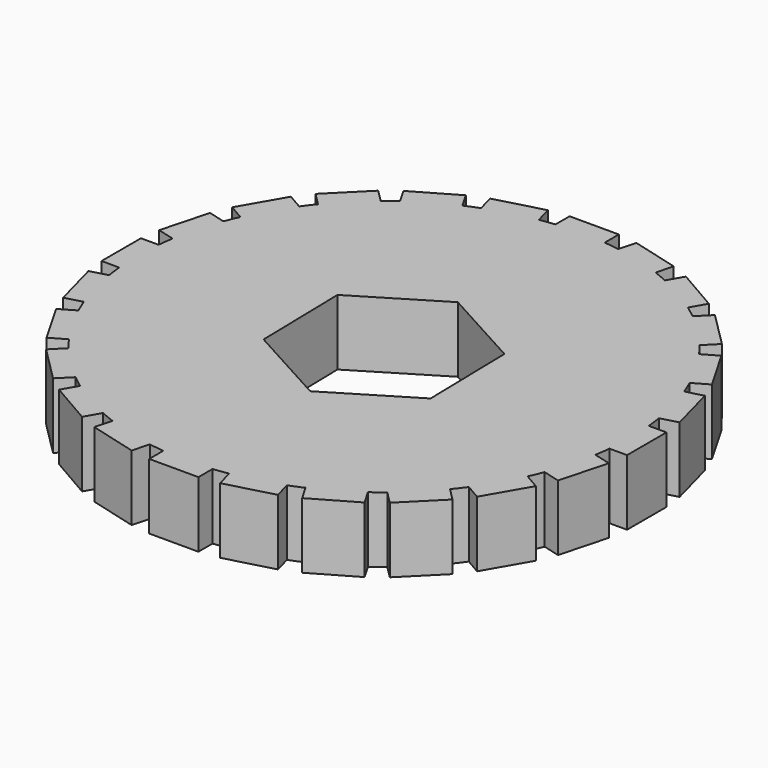
from build123d import *

# Parameters (mm, degrees)
F1_DEPTH = 4


with BuildPart() as f1:
    # F0 (on Top) → F1 (new body)
    with BuildSketch(Plane.XY):
        with BuildLine():
            ThreePointArc((-14.80449, -2.413937), (-14.488887, -3.882286), (-14.028032, -5.311714))
            Line((-14.028032, -5.311714), (-13.134733, -5.072355))
            Line((-13.134733, -5.072355), (-13.91119, -2.174578))
            Line((-13.91119, -2.174578), (-14.80449, -2.413937))
        make_face()
        with BuildLine():
            Line((-10.253048, -12.374369), (-9.492775, -11.614096))
            ThreePointArc((-9.492775, -11.614096), (-10.606602, -10.606602), (-11.614096, -9.492775))
            Line((-11.614096, -9.492775), (-12.374369, -10.253048))
            Line((-12.374369, -10.253048), (-10.253048, -12.374369))
        make_face()
        with BuildLine():
            Line((14.606406, -6.700962), (13.675266, -6.163368))
            ThreePointArc((13.675266, -6.163368), (12.990381, -7.5), (12.175266, -8.761444))
            Line((12.175266, -8.761444), (13.106406, -9.299038))
            Line((13.106406, -9.299038), (14.606406, -6.700962))
        make_face()
        with BuildLine():
            Line((-14, 1.5), (-14.924812, 1.5))
            ThreePointArc((-14.924812, 1.5), (-15, 0), (-14.924812, -1.5))
            Line((-14.924812, -1.5), (-14, -1.5))
            Line((-14, -1.5), (-14, 1.5))
        make_face()
        with BuildLine():
            Line((12.374369, -10.253048), (11.614096, -9.492775))
            ThreePointArc((11.614096, -9.492775), (10.606602, -10.606602), (9.492775, -11.614096))
            Line((9.492775, -11.614096), (10.253048, -12.374369))
            Line((10.253048, -12.374369), (12.374369, -10.253048))
        make_face()
        with BuildLine():
            Line((-13.134733, 5.072355), (-14.028032, 5.311714))
            ThreePointArc((-14.028032, 5.311714), (-14.488887, 3.882286), (-14.80449, 2.413937))
            Line((-14.80449, 2.413937), (-13.91119, 2.174578))
            Line((-13.91119, 2.174578), (-13.134733, 5.072355))
        make_face()
        with BuildLine():
            Line((-13.106406, -9.299038), (-12.175266, -8.761444))
            ThreePointArc((-12.175266, -8.761444), (-12.990381, -7.5), (-13.675266, -6.163368))
            Line((-13.675266, -6.163368), (-14.606406, -6.700962))
            Line((-14.606406, -6.700962), (-13.106406, -9.299038))
        make_face()
        with BuildLine():
            Line((9.299038, -13.106406), (8.761444, -12.175266))
            ThreePointArc((8.761444, -12.175266), (7.5, -12.990381), (6.163368, -13.675266))
            Line((6.163368, -13.675266), (6.700962, -14.606406))
            Line((6.700962, -14.606406), (9.299038, -13.106406))
        make_face()
        with BuildLine():
            Line((-11.374356, 8.299038), (-12.175266, 8.761444))
            ThreePointArc((-12.175266, 8.761444), (-12.990381, 7.5), (-13.675266, 6.163368))
            Line((-13.675266, 6.163368), (-12.874356, 5.700962))
            Line((-12.874356, 5.700962), (-11.374356, 8.299038))
        make_face()
        with BuildLine():
            Line((5.589993, -15.066585), (5.311714, -14.028032))
            ThreePointArc((5.311714, -14.028032), (3.882286, -14.488887), (2.413937, -14.80449))
            Line((2.413937, -14.80449), (2.692216, -15.843042))
            Line((2.692216, -15.843042), (5.589993, -15.066585))
        make_face()
        with BuildLine():
            Line((-8.838835, 10.960155), (-9.492775, 11.614096))
            ThreePointArc((-9.492775, 11.614096), (-10.606602, 10.606602), (-11.614096, 9.492775))
            Line((-11.614096, 9.492775), (-10.960155, 8.838835))
            Line((-10.960155, 8.838835), (-8.838835, 10.960155))
        make_face()
        with BuildLine():
            Line((14, 1.5), (14.924812, 1.5))
            ThreePointArc((14.924812, 1.5), (14.871673, 1.957893), (14.80449, 2.413937))
            Line((14.80449, 2.413937), (13.91119, 2.174578))
            Line((13.91119, 2.174578), (13.134733, 5.072355))
            Line((13.134733, 5.072355), (14.028032, 5.311714))
            ThreePointArc((14.028032, 5.311714), (13.858193, 5.740251), (13.675266, 6.163368))
            Line((13.675266, 6.163368), (12.874356, 5.700962))
            Line((12.874356, 5.700962), (11.374356, 8.299038))
            Line((11.374356, 8.299038), (12.175266, 8.761444))
            ThreePointArc((12.175266, 8.761444), (11.9003, 9.131421), (11.614096, 9.492775))
            Line((11.614096, 9.492775), (10.960155, 8.838835))
            Line((10.960155, 8.838835), (8.838835, 10.960155))
            Line((8.838835, 10.960155), (9.492775, 11.614096))
            ThreePointArc((9.492775, 11.614096), (9.131421, 11.9003), (8.761444, 12.175266))
            Line((8.761444, 12.175266), (8.299038, 11.374356))
            Line((8.299038, 11.374356), (5.700962, 12.874356))
            Line((5.700962, 12.874356), (6.163368, 13.675266))
            ThreePointArc((6.163368, 13.675266), (5.740251, 13.858193), (5.311714, 14.028032))
            Line((5.311714, 14.028032), (5.072355, 13.134733))
            Line((5.072355, 13.134733), (2.174578, 13.91119))
            Line((2.174578, 13.91119), (2.413937, 14.80449))
            ThreePointArc((2.413937, 14.80449), (1.957893, 14.871673), (1.5, 14.924812))
            Line((1.5, 14.924812), (1.5, 14))
            Line((1.5, 14), (-1.5, 14))
            Line((-1.5, 14), (-1.5, 14.924812))
            ThreePointArc((-1.5, 14.924812), (-1.957893, 14.871673), (-2.413937, 14.80449))
            Line((-2.413937, 14.80449), (-2.174578, 13.91119))
            Line((-2.174578, 13.91119), (-5.072355, 13.134733))
            Line((-5.072355, 13.134733), (-5.311714, 14.028032))
            ThreePointArc((-5.311714, 14.028032), (-5.740251, 13.858193), (-6.163368, 13.675266))
            Line((-6.163368, 13.675266), (-5.700962, 12.874356))
            Line((-5.700962, 12.874356), (-8.299038, 11.374356))
            Line((-8.299038, 11.374356), (-8.761444, 12.175266))
            ThreePointArc((-8.761444, 12.175266), (-9.131421, 11.9003), (-9.492775, 11.614096))
            Line((-9.492775, 11.614096), (-8.838835, 10.960155))
            Line((-8.838835, 10.960155), (-10.960155, 8.838835))
            Line((-10.960155, 8.838835), (-11.614096, 9.492775))
            ThreePointArc((-11.614096, 9.492775), (-11.9003, 9.131421), (-12.175266, 8.761444))
            Line((-12.175266, 8.761444), (-11.374356, 8.299038))
            Line((-11.374356, 8.299038), (-12.874356, 5.700962))
            Line((-12.874356, 5.700962), (-13.675266, 6.163368))
            ThreePointArc((-13.675266, 6.163368), (-13.858193, 5.740251), (-14.028032, 5.311714))
            Line((-14.028032, 5.311714), (-13.134733, 5.072355))
            Line((-13.134733, 5.072355), (-13.91119, 2.174578))
            Line((-13.91119, 2.174578), (-14.80449, 2.413937))
            ThreePointArc((-14.80449, 2.413937), (-14.871673, 1.957893), (-14.924812, 1.5))
            Line((-14.924812, 1.5), (-14, 1.5))
            Line((-14, 1.5), (-14, -1.5))
            Line((-14, -1.5), (-14.924812, -1.5))
            ThreePointArc((-14.924812, -1.5), (-14.871673, -1.957893), (-14.80449, -2.413937))
            Line((-14.80449, -2.413937), (-13.91119, -2.174578))
            Line((-13.91119, -2.174578), (-13.134733, -5.072355))
            Line((-13.134733, -5.072355), (-14.028032, -5.311714))
            ThreePointArc((-14.028032, -5.311714), (-13.858193, -5.740251), (-13.675266, -6.163368))
            Line((-13.675266, -6.163368), (-12.874356, -5.700962))
            Line((-12.874356, -5.700962), (-11.374356, -8.299038))
            Line((-11.374356, -8.299038), (-12.175266, -8.761444))
            ThreePointArc((-12.175266, -8.761444), (-11.9003, -9.131421), (-11.614096, -9.492775))
            Line((-11.614096, -9.492775), (-10.960155, -8.838835))
            Line((-10.960155, -8.838835), (-8.838835, -10.960155))
            Line((-8.838835, -10.960155), (-9.492775, -11.614096))
            ThreePointArc((-9.492775, -11.614096), (-9.131421, -11.9003), (-8.761444, -12.175266))
            Line((-8.761444, -12.175266), (-8.299038, -11.374356))
            Line((-8.299038, -11.374356), (-5.700962, -12.874356))
            Line((-5.700962, -12.874356), (-6.163368, -13.675266))
            ThreePointArc((-6.163368, -13.675266), (-5.740251, -13.858193), (-5.311714, -14.028032))
            Line((-5.311714, -14.028032), (-5.072355, -13.134733))
            Line((-5.072355, -13.134733), (-2.174578, -13.91119))
            Line((-2.174578, -13.91119), (-2.413937, -14.80449))
            ThreePointArc((-2.413937, -14.80449), (-1.957893, -14.871673), (-1.5, -14.924812))
            Line((-1.5, -14.924812), (-1.5, -14))
            Line((-1.5, -14), (1.5, -14))
            Line((1.5, -14), (1.5, -14.924812))
            ThreePointArc((1.5, -14.924812), (1.957893, -14.871673), (2.413937, -14.80449))
            Line((2.413937, -14.80449), (2.174578, -13.91119))
            Line((2.174578, -13.91119), (5.072355, -13.134733))
            Line((5.072355, -13.134733), (5.311714, -14.028032))
            ThreePointArc((5.311714, -14.028032), (5.740251, -13.858193), (6.163368, -13.675266))
            Line((6.163368, -13.675266), (5.700962, -12.874356))
            Line((5.700962, -12.874356), (8.299038, -11.374356))
            Line((8.299038, -11.374356), (8.761444, -12.175266))
            ThreePointArc((8.761444, -12.175266), (9.131421, -11.9003), (9.492775, -11.614096))
            Line((9.492775, -11.614096), (8.838835, -10.960155))
            Line((8.838835, -10.960155), (10.960155, -8.838835))
            Line((10.960155, -8.838835), (11.614096, -9.492775))
            ThreePointArc((11.614096, -9.492775), (11.9003, -9.131421), (12.175266, -8.761444))
            Line((12.175266, -8.761444), (11.374356, -8.299038))
            Line((11.374356, -8.299038), (12.874356, -5.700962))
            Line((12.874356, -5.700962), (13.675266, -6.163368))
            ThreePointArc((13.675266, -6.163368), (13.858193, -5.740251), (14.028032, -5.311714))
            Line((14.028032, -5.311714), (13.134733, -5.072355))
            Line((13.134733, -5.072355), (13.91119, -2.174578))
            Line((13.91119, -2.174578), (14.80449, -2.413937))
            ThreePointArc((14.80449, -2.413937), (14.871673, -1.957893), (14.924812, -1.5))
            Line((14.924812, -1.5), (14, -1.5))
            Line((14, -1.5), (14, 1.5))
        make_face()
        Polygon((5.059899, -2.780423), (0.122032, -5.772213), (-4.937867, -2.991789), (-5.059899, 2.780423), (-0.122032, 5.772213), (4.937867, 2.991789), align=None, mode=Mode.SUBTRACT)
        with BuildLine():
            Line((1.5, -16), (1.5, -14.924812))
            ThreePointArc((1.5, -14.924812), (0, -15), (-1.5, -14.924812))
            Line((-1.5, -14.924812), (-1.5, -16))
            Line((-1.5, -16), (1.5, -16))
        make_face()
        with BuildLine():
            Line((-6.700962, -14.606406), (-6.163368, -13.675266))
            ThreePointArc((-6.163368, -13.675266), (-7.5, -12.990381), (-8.761444, -12.175266))
            Line((-8.761444, -12.175266), (-9.299038, -13.106406))
            Line((-9.299038, -13.106406), (-6.700962, -14.606406))
        make_face()
        with BuildLine():
            Line((15.843042, -2.692216), (14.80449, -2.413937))
            ThreePointArc((14.80449, -2.413937), (14.488887, -3.882286), (14.028032, -5.311714))
            Line((14.028032, -5.311714), (15.066585, -5.589993))
            Line((15.066585, -5.589993), (15.843042, -2.692216))
        make_face()
        with BuildLine():
            ThreePointArc((-13.675266, -6.163368), (-12.990381, -7.5), (-12.175266, -8.761444))
            Line((-12.175266, -8.761444), (-11.374356, -8.299038))
            Line((-11.374356, -8.299038), (-12.874356, -5.700962))
            Line((-12.874356, -5.700962), (-13.675266, -6.163368))
        make_face()
        with BuildLine():
            Line((-5.700962, 12.874356), (-6.163368, 13.675266))
            ThreePointArc((-6.163368, 13.675266), (-7.5, 12.990381), (-8.761444, 12.175266))
            Line((-8.761444, 12.175266), (-8.299038, 11.374356))
            Line((-8.299038, 11.374356), (-5.700962, 12.874356))
        make_face()
        with BuildLine():
            ThreePointArc((14.924812, -1.5), (14.981191, -0.750942), (15, 0))
            ThreePointArc((15, 0), (14.981191, 0.750942), (14.924812, 1.5))
            Line((14.924812, 1.5), (14, 1.5))
            Line((14, 1.5), (14, -1.5))
            Line((14, -1.5), (14.924812, -1.5))
        make_face()
        with BuildLine():
            Line((-2.692216, -15.843042), (-2.413937, -14.80449))
            ThreePointArc((-2.413937, -14.80449), (-3.882286, -14.488887), (-5.311714, -14.028032))
            Line((-5.311714, -14.028032), (-5.589993, -15.066585))
            Line((-5.589993, -15.066585), (-2.692216, -15.843042))
        make_face()
        with BuildLine():
            Line((8.299038, 11.374356), (8.761444, 12.175266))
            ThreePointArc((8.761444, 12.175266), (7.5, 12.990381), (6.163368, 13.675266))
            Line((6.163368, 13.675266), (5.700962, 12.874356))
            Line((5.700962, 12.874356), (8.299038, 11.374356))
        make_face()
        with BuildLine():
            ThreePointArc((6.163368, -13.675266), (7.5, -12.990381), (8.761444, -12.175266))
            Line((8.761444, -12.175266), (8.299038, -11.374356))
            Line((8.299038, -11.374356), (5.700962, -12.874356))
            Line((5.700962, -12.874356), (6.163368, -13.675266))
        make_face()
        with BuildLine():
            ThreePointArc((12.175266, -8.761444), (12.990381, -7.5), (13.675266, -6.163368))
            Line((13.675266, -6.163368), (12.874356, -5.700962))
            Line((12.874356, -5.700962), (11.374356, -8.299038))
            Line((11.374356, -8.299038), (12.175266, -8.761444))
        make_face()
        with BuildLine():
            ThreePointArc((2.413937, -14.80449), (3.882286, -14.488887), (5.311714, -14.028032))
            Line((5.311714, -14.028032), (5.072355, -13.134733))
            Line((5.072355, -13.134733), (2.174578, -13.91119))
            Line((2.174578, -13.91119), (2.413937, -14.80449))
        make_face()
        with BuildLine():
            ThreePointArc((-1.5, -14.924812), (0, -15), (1.5, -14.924812))
            Line((1.5, -14.924812), (1.5, -14))
            Line((1.5, -14), (-1.5, -14))
            Line((-1.5, -14), (-1.5, -14.924812))
        make_face()
        with BuildLine():
            Line((12.874356, 5.700962), (13.675266, 6.163368))
            ThreePointArc((13.675266, 6.163368), (12.990381, 7.5), (12.175266, 8.761444))
            Line((12.175266, 8.761444), (11.374356, 8.299038))
            Line((11.374356, 8.299038), (12.874356, 5.700962))
        make_face()
        with BuildLine():
            Line((10.960155, 8.838835), (11.614096, 9.492775))
            ThreePointArc((11.614096, 9.492775), (10.606602, 10.606602), (9.492775, 11.614096))
            Line((9.492775, 11.614096), (8.838835, 10.960155))
            Line((8.838835, 10.960155), (10.960155, 8.838835))
        make_face()
        with BuildLine():
            ThreePointArc((9.492775, -11.614096), (10.606602, -10.606602), (11.614096, -9.492775))
            Line((11.614096, -9.492775), (10.960155, -8.838835))
            Line((10.960155, -8.838835), (8.838835, -10.960155))
            Line((8.838835, -10.960155), (9.492775, -11.614096))
        make_face()
        with BuildLine():
            Line((5.072355, 13.134733), (5.311714, 14.028032))
            ThreePointArc((5.311714, 14.028032), (3.882286, 14.488887), (2.413937, 14.80449))
            Line((2.413937, 14.80449), (2.174578, 13.91119))
            Line((2.174578, 13.91119), (5.072355, 13.134733))
        make_face()
        with BuildLine():
            ThreePointArc((14.028032, 5.311714), (14.488887, 3.882286), (14.80449, 2.413937))
            Line((14.80449, 2.413937), (15.843042, 2.692216))
            Line((15.843042, 2.692216), (15.066585, 5.589993))
            Line((15.066585, 5.589993), (14.028032, 5.311714))
        make_face()
        with BuildLine():
            ThreePointArc((12.175266, 8.761444), (12.990381, 7.5), (13.675266, 6.163368))
            Line((13.675266, 6.163368), (14.606406, 6.700962))
            Line((14.606406, 6.700962), (13.106406, 9.299038))
            Line((13.106406, 9.299038), (12.175266, 8.761444))
        make_face()
        with BuildLine():
            ThreePointArc((9.492775, 11.614096), (10.606602, 10.606602), (11.614096, 9.492775))
            Line((11.614096, 9.492775), (12.374369, 10.253048))
            Line((12.374369, 10.253048), (10.253048, 12.374369))
            Line((10.253048, 12.374369), (9.492775, 11.614096))
        make_face()
        with BuildLine():
            ThreePointArc((6.163368, 13.675266), (7.5, 12.990381), (8.761444, 12.175266))
            Line((8.761444, 12.175266), (9.299038, 13.106406))
            Line((9.299038, 13.106406), (6.700962, 14.606406))
            Line((6.700962, 14.606406), (6.163368, 13.675266))
        make_face()
        with BuildLine():
            ThreePointArc((2.413937, 14.80449), (3.882286, 14.488887), (5.311714, 14.028032))
            Line((5.311714, 14.028032), (5.589993, 15.066585))
            Line((5.589993, 15.066585), (2.692216, 15.843042))
            Line((2.692216, 15.843042), (2.413937, 14.80449))
        make_face()
        with BuildLine():
            ThreePointArc((-5.311714, 14.028032), (-3.882286, 14.488887), (-2.413937, 14.80449))
            Line((-2.413937, 14.80449), (-2.692216, 15.843042))
            Line((-2.692216, 15.843042), (-5.589993, 15.066585))
            Line((-5.589993, 15.066585), (-5.311714, 14.028032))
        make_face()
        with BuildLine():
            ThreePointArc((-8.761444, 12.175266), (-7.5, 12.990381), (-6.163368, 13.675266))
            Line((-6.163368, 13.675266), (-6.700962, 14.606406))
            Line((-6.700962, 14.606406), (-9.299038, 13.106406))
            Line((-9.299038, 13.106406), (-8.761444, 12.175266))
        make_face()
        with BuildLine():
            ThreePointArc((-11.614096, 9.492775), (-10.606602, 10.606602), (-9.492775, 11.614096))
            Line((-9.492775, 11.614096), (-10.253048, 12.374369))
            Line((-10.253048, 12.374369), (-12.374369, 10.253048))
            Line((-12.374369, 10.253048), (-11.614096, 9.492775))
        make_face()
        with BuildLine():
            ThreePointArc((-13.675266, 6.163368), (-12.990381, 7.5), (-12.175266, 8.761444))
            Line((-12.175266, 8.761444), (-13.106406, 9.299038))
            Line((-13.106406, 9.299038), (-14.606406, 6.700962))
            Line((-14.606406, 6.700962), (-13.675266, 6.163368))
        make_face()
        with BuildLine():
            ThreePointArc((-14.80449, 2.413937), (-14.488887, 3.882286), (-14.028032, 5.311714))
            Line((-14.028032, 5.311714), (-15.066585, 5.589993))
            Line((-15.066585, 5.589993), (-15.843042, 2.692216))
            Line((-15.843042, 2.692216), (-14.80449, 2.413937))
        make_face()
        with BuildLine():
            ThreePointArc((-14.924812, -1.5), (-15, 0), (-14.924812, 1.5))
            Line((-14.924812, 1.5), (-16, 1.5))
            Line((-16, 1.5), (-16, -1.5))
            Line((-16, -1.5), (-14.924812, -1.5))
        make_face()
        with BuildLine():
            Line((-15.066585, -5.589993), (-14.028032, -5.311714))
            ThreePointArc((-14.028032, -5.311714), (-14.488887, -3.882286), (-14.80449, -2.413937))
            Line((-14.80449, -2.413937), (-15.843042, -2.692216))
            Line((-15.843042, -2.692216), (-15.066585, -5.589993))
        make_face()
        with BuildLine():
            ThreePointArc((-11.614096, -9.492775), (-10.606602, -10.606602), (-9.492775, -11.614096))
            Line((-9.492775, -11.614096), (-8.838835, -10.960155))
            Line((-8.838835, -10.960155), (-10.960155, -8.838835))
            Line((-10.960155, -8.838835), (-11.614096, -9.492775))
        make_face()
        with BuildLine():
            ThreePointArc((14.924812, 1.5), (14.981191, 0.750942), (15, 0))
            ThreePointArc((15, 0), (14.981191, -0.750942), (14.924812, -1.5))
            Line((14.924812, -1.5), (16, -1.5))
            Line((16, -1.5), (16, 1.5))
            Line((16, 1.5), (14.924812, 1.5))
        make_face()
        with BuildLine():
            ThreePointArc((-8.761444, -12.175266), (-7.5, -12.990381), (-6.163368, -13.675266))
            Line((-6.163368, -13.675266), (-5.700962, -12.874356))
            Line((-5.700962, -12.874356), (-8.299038, -11.374356))
            Line((-8.299038, -11.374356), (-8.761444, -12.175266))
        make_face()
        with BuildLine():
            Line((-2.174578, 13.91119), (-2.413937, 14.80449))
            ThreePointArc((-2.413937, 14.80449), (-3.882286, 14.488887), (-5.311714, 14.028032))
            Line((-5.311714, 14.028032), (-5.072355, 13.134733))
            Line((-5.072355, 13.134733), (-2.174578, 13.91119))
        make_face()
        with BuildLine():
            ThreePointArc((-5.311714, -14.028032), (-3.882286, -14.488887), (-2.413937, -14.80449))
            Line((-2.413937, -14.80449), (-2.174578, -13.91119))
            Line((-2.174578, -13.91119), (-5.072355, -13.134733))
            Line((-5.072355, -13.134733), (-5.311714, -14.028032))
        make_face()
        with BuildLine():
            Line((13.91119, 2.174578), (14.80449, 2.413937))
            ThreePointArc((14.80449, 2.413937), (14.488887, 3.882286), (14.028032, 5.311714))
            Line((14.028032, 5.311714), (13.134733, 5.072355))
            Line((13.134733, 5.072355), (13.91119, 2.174578))
        make_face()
        with BuildLine():
            ThreePointArc((14.028032, -5.311714), (14.488887, -3.882286), (14.80449, -2.413937))
            Line((14.80449, -2.413937), (13.91119, -2.174578))
            Line((13.91119, -2.174578), (13.134733, -5.072355))
            Line((13.134733, -5.072355), (14.028032, -5.311714))
        make_face()
        with BuildLine():
            Line((1.5, 14), (1.5, 14.924812))
            ThreePointArc((1.5, 14.924812), (0, 15), (-1.5, 14.924812))
            Line((-1.5, 14.924812), (-1.5, 14))
            Line((-1.5, 14), (1.5, 14))
        make_face()
        with BuildLine():
            ThreePointArc((-1.5, 14.924812), (0, 15), (1.5, 14.924812))
            Line((1.5, 14.924812), (1.5, 16))
            Line((1.5, 16), (-1.5, 16))
            Line((-1.5, 16), (-1.5, 14.924812))
        make_face()
    extrude(amount=F1_DEPTH)


solid = f1.part
